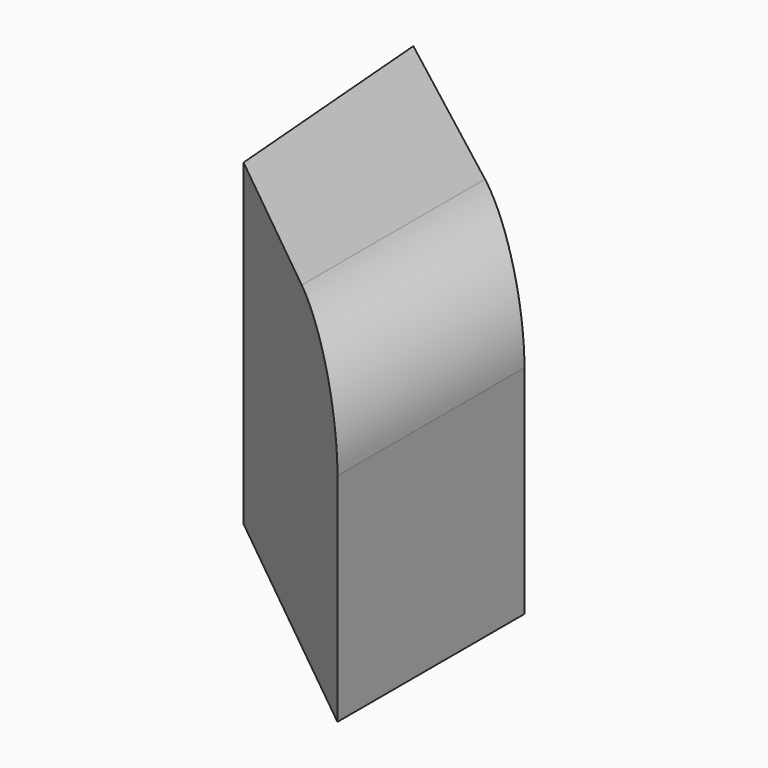
from build123d import *

# Parameters (mm, degrees)
F1_DEPTH = 53
F2_R     = 16.899495


with BuildPart() as f1:
    # F0 (on Top) → F1 (new body)
    with BuildSketch(Plane.XY):
        Polygon((-96.82814, 22.496663), (-93.590319, -16.897356), (-49.226902, -52.804068), (-49.226902, -13.874024), align=None)
    extrude(amount=F1_DEPTH)

    # F2
    f2_edges = [f1.edges().sort_by_distance(p)[0] for p in [
        (-49.226902, -33.339046, 53),
    ]]
    fillet(f2_edges, radius=F2_R)


solid = f1.part
